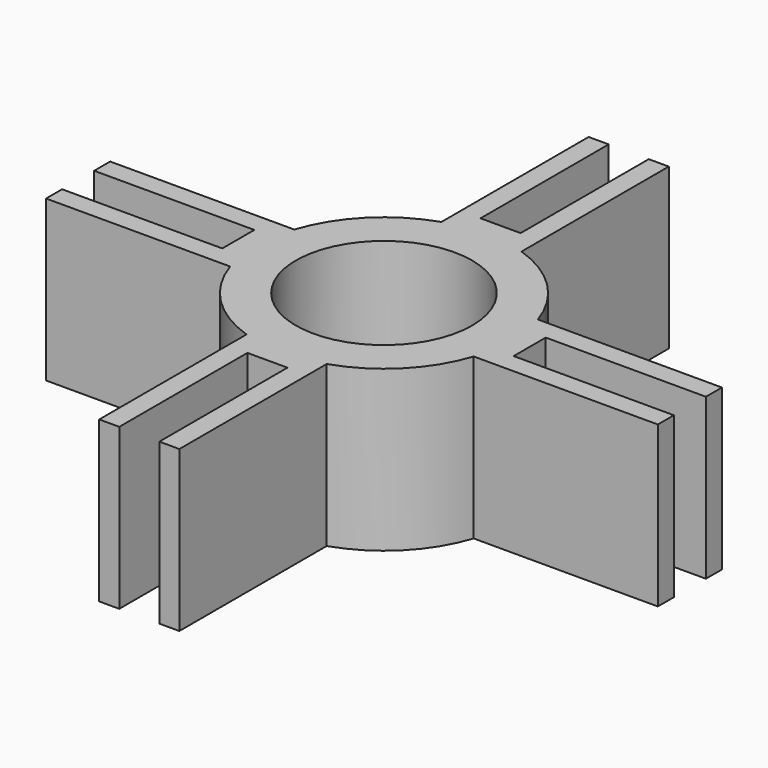
from build123d import *

# Parameters (mm, degrees)
F0_R     = 6.985
F1_DEPTH = 12.7


with BuildPart() as f1:
    # F0 (on Top) → F1 (new body)
    with BuildSketch(Plane.XY):
        with BuildLine():
            ThreePointArc((-3.175, 9.651164), (0, 10.16), (3.175, 9.651164))
            Line((3.175, 9.651164), (3.175, 24.243791))
            Line((3.175, 24.243791), (1.5875, 24.243791))
            Line((1.5875, 24.243791), (1.5875, 11.548717))
            Line((1.5875, 11.548717), (-1.5875, 11.548717))
            Line((-1.5875, 11.548717), (-1.5875, 24.243791))
            Line((-1.5875, 24.243791), (-3.175, 24.243791))
            Line((-3.175, 24.243791), (-3.175, 9.651164))
        make_face()
        with BuildLine():
            Line((3.175, 7.733791), (3.175, 9.651164))
            ThreePointArc((3.175, 9.651164), (0, 10.16), (-3.175, 9.651164))
            Line((-3.175, 9.651164), (-3.175, 7.733791))
            Line((-3.175, 7.733791), (3.175, 7.733791))
        make_face()
        with BuildLine():
            Line((7.733791, 3.175), (9.651164, 3.175))
            ThreePointArc((9.651164, 3.175), (7.184205, 7.184205), (3.175, 9.651164))
            Line((3.175, 9.651164), (3.175, 7.733791))
            Line((3.175, 7.733791), (-3.175, 7.733791))
            Line((-3.175, 7.733791), (-3.175, 9.651164))
            ThreePointArc((-3.175, 9.651164), (-7.184205, 7.184205), (-9.651164, 3.175))
            Line((-9.651164, 3.175), (-7.733791, 3.175))
            Line((-7.733791, 3.175), (-7.733791, -3.175))
            Line((-7.733791, -3.175), (-9.651164, -3.175))
            ThreePointArc((-9.651164, -3.175), (-7.184205, -7.184205), (-3.175, -9.651164))
            Line((-3.175, -9.651164), (-3.175, -7.733791))
            Line((-3.175, -7.733791), (3.175, -7.733791))
            Line((3.175, -7.733791), (3.175, -9.651164))
            ThreePointArc((3.175, -9.651164), (7.184205, -7.184205), (9.651164, -3.175))
            Line((9.651164, -3.175), (7.733791, -3.175))
            Line((7.733791, -3.175), (7.733791, 3.175))
        make_face()
        Circle(F0_R, mode=Mode.SUBTRACT)
        with BuildLine():
            ThreePointArc((9.651164, -3.175), (10.031985, -1.607758), (10.16, 0))
            ThreePointArc((10.16, 0), (10.031985, 1.607758), (9.651164, 3.175))
            Line((9.651164, 3.175), (7.733791, 3.175))
            Line((7.733791, 3.175), (7.733791, -3.175))
            Line((7.733791, -3.175), (9.651164, -3.175))
        make_face()
        with BuildLine():
            ThreePointArc((9.651164, 3.175), (10.031985, 1.607758), (10.16, 0))
            ThreePointArc((10.16, 0), (10.031985, -1.607758), (9.651164, -3.175))
            Line((9.651164, -3.175), (24.243791, -3.175))
            Line((24.243791, -3.175), (24.243791, -1.5875))
            Line((24.243791, -1.5875), (11.548717, -1.5875))
            Line((11.548717, -1.5875), (11.548717, 1.5875))
            Line((11.548717, 1.5875), (24.243791, 1.5875))
            Line((24.243791, 1.5875), (24.243791, 3.175))
            Line((24.243791, 3.175), (9.651164, 3.175))
        make_face()
        with BuildLine():
            Line((3.175, -24.243791), (3.175, -9.651164))
            ThreePointArc((3.175, -9.651164), (0, -10.16), (-3.175, -9.651164))
            Line((-3.175, -9.651164), (-3.175, -24.243791))
            Line((-3.175, -24.243791), (-1.5875, -24.243791))
            Line((-1.5875, -24.243791), (-1.5875, -11.548717))
            Line((-1.5875, -11.548717), (1.5875, -11.548717))
            Line((1.5875, -11.548717), (1.5875, -24.243791))
            Line((1.5875, -24.243791), (3.175, -24.243791))
        make_face()
        with BuildLine():
            ThreePointArc((-3.175, -9.651164), (0, -10.16), (3.175, -9.651164))
            Line((3.175, -9.651164), (3.175, -7.733791))
            Line((3.175, -7.733791), (-3.175, -7.733791))
            Line((-3.175, -7.733791), (-3.175, -9.651164))
        make_face()
        with BuildLine():
            Line((-7.733791, 3.175), (-9.651164, 3.175))
            ThreePointArc((-9.651164, 3.175), (-10.16, 0), (-9.651164, -3.175))
            Line((-9.651164, -3.175), (-7.733791, -3.175))
            Line((-7.733791, -3.175), (-7.733791, 3.175))
        make_face()
        with BuildLine():
            ThreePointArc((-9.651164, -3.175), (-10.16, 0), (-9.651164, 3.175))
            Line((-9.651164, 3.175), (-24.243791, 3.175))
            Line((-24.243791, 3.175), (-24.243791, 1.5875))
            Line((-24.243791, 1.5875), (-11.548717, 1.5875))
            Line((-11.548717, 1.5875), (-11.548717, -1.5875))
            Line((-11.548717, -1.5875), (-24.243791, -1.5875))
            Line((-24.243791, -1.5875), (-24.243791, -3.175))
            Line((-24.243791, -3.175), (-9.651164, -3.175))
        make_face()
    extrude(amount=F1_DEPTH)


solid = f1.part
